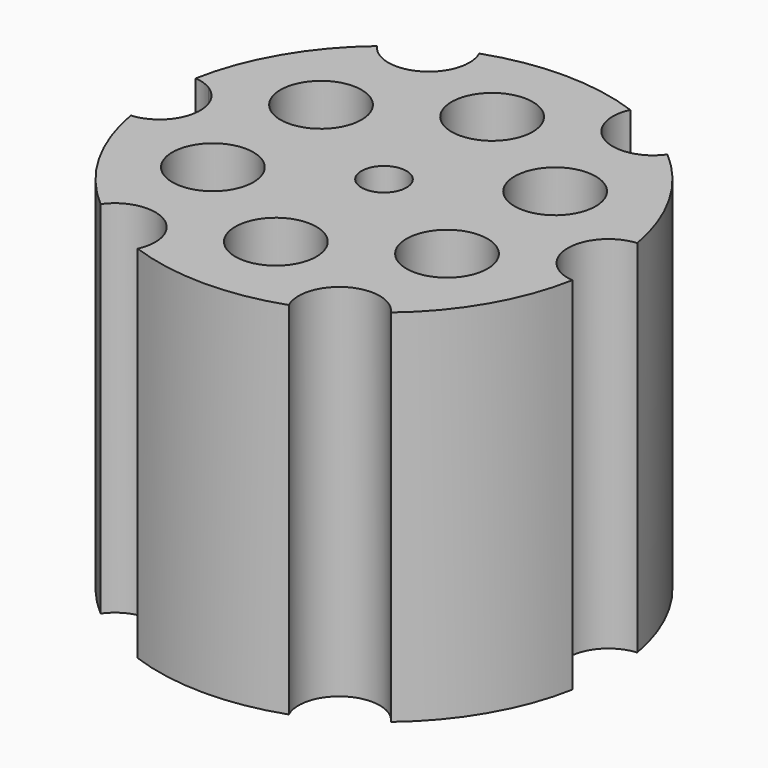
from build123d import *

# Parameters (mm, degrees)
F0_R     = 31.75
F0_R_2   = 5.715
F1_DEPTH = 50.8
F3_DEPTH = 76.2
F4_R     = 3.175
F5_DEPTH = 76.2


with BuildPart() as f1:
    # F0 (on Top) → F1 (new body)
    with BuildSketch(Plane.XY):
        Circle(F0_R)
        with Locations((-16.4977839421, -9.525)):
            Circle(F0_R_2, mode=Mode.SUBTRACT)
        with Locations((0, -19.05)):
            Circle(F0_R_2, mode=Mode.SUBTRACT)
        with Locations((16.4977839421, -9.525)):
            Circle(F0_R_2, mode=Mode.SUBTRACT)
        with Locations((-16.4977839421, 9.525)):
            Circle(F0_R_2, mode=Mode.SUBTRACT)
        with Locations((16.4977839421, 9.525)):
            Circle(F0_R_2, mode=Mode.SUBTRACT)
        with BuildLine():
            ThreePointArc((0, 13.335), (-4.0411152545, 23.0911152545), (5.715, 19.05))
            ThreePointArc((5.715, 19.05), (4.0411152545, 15.0088847455), (0, 13.335))
        make_face(mode=Mode.SUBTRACT)
    extrude(amount=F1_DEPTH)

    # F2 (on face) → F3 (cut)
    with BuildSketch(Plane.XY.offset(50.8)):
        with BuildLine():
            ThreePointArc((21.7238685359, 27.4185818051), (17.2514556231, 32.9968613186), (10.8342089276, 29.8443029222))
            ThreePointArc((10.8342089276, 29.8443029222), (16.0088685359, 27.4185818051), (20.6648408036, 24.1044986374))
            ThreePointArc((20.6648408036, 24.1044986374), (21.4526772444, 25.6789922716), (21.7238685359, 27.4185818051))
        make_face()
        with BuildLine():
            ThreePointArc((20.6648408036, 24.1044986374), (16.0088685359, 27.4185818051), (10.8342089276, 29.8443029222))
            ThreePointArc((10.8342089276, 29.8443029222), (13.1272721994, 22.4832370801), (20.6648408036, 24.1044986374))
        make_face()
        with BuildLine():
            Line((-15.740754111, 27.5733777405), (-12.907418371, 22.6101697472))
            ThreePointArc((-12.907418371, 22.6101697472), (-10.798399472, 24.7038210459), (-10.025754111, 27.5733777405))
            ThreePointArc((-10.025754111, 27.5733777405), (-10.1564827093, 28.7887533666), (-10.5426877637, 29.9485264198))
            ThreePointArc((-10.5426877637, 29.9485264198), (-13.1952704408, 28.8781463739), (-15.740754111, 27.5733777405))
        make_face()
        with BuildLine():
            ThreePointArc((-18.6103108055, 22.6310231015), (-15.7616515985, 21.8584159475), (-12.907418371, 22.6101697472))
            Line((-12.907418371, 22.6101697472), (-15.740754111, 27.5733777405))
            Line((-15.740754111, 27.5733777405), (-18.6103108055, 22.6310231015))
        make_face()
        with BuildLine():
            Line((-18.6103108055, 22.6310231015), (-15.740754111, 27.5733777405))
            ThreePointArc((-15.740754111, 27.5733777405), (-18.1584784341, 26.0448106339), (-20.4288200251, 24.3048516223))
            ThreePointArc((-20.4288200251, 24.3048516223), (-19.6111339829, 23.368453883), (-18.6103108055, 22.6310231015))
        make_face()
        with BuildLine():
            Line((-31.75, 0), (-26.0367194254, 0))
            ThreePointArc((-26.0367194254, 0), (-26.0351468655, 0.0773908676), (-26.0346226469, 0.1547959354))
            ThreePointArc((-26.0346226469, 0.1547959354), (-26.7776126488, 2.9726571064), (-28.8133948529, 5.0578349259))
            Line((-28.8133948529, 5.0578349259), (-31.75, 0))
        make_face()
        with BuildLine():
            ThreePointArc((-31.2630289527, -5.5394512999), (-27.5927222778, -3.7671174142), (-26.0367194254, 0))
            Line((-26.0367194254, 0), (-31.75, 0))
            ThreePointArc((-31.75, 0), (-31.6280229326, -2.7804074119), (-31.2630289527, -5.5394512999))
        make_face()
        with BuildLine():
            ThreePointArc((-31.2075285673, 5.8440277824), (-31.614091257, 2.9345756072), (-31.75, 0))
            Line((-31.75, 0), (-28.8133948529, 5.0578349259))
            ThreePointArc((-28.8133948529, 5.0578349259), (-29.9665899591, 5.5845306834), (-31.2075285673, 5.8440277824))
        make_face()
        with BuildLine():
            ThreePointArc((-10.2938685359, -27.4185818051), (-14.2692790024, -21.9747730965), (-20.6648408036, -24.1044986374))
            ThreePointArc((-20.6648408036, -24.1044986374), (-16.0088685359, -27.4185818051), (-10.8342089276, -29.8443029222))
            ThreePointArc((-10.8342089276, -29.8443029222), (-10.4305890224, -28.6611688923), (-10.2938685359, -27.4185818051))
        make_face()
        with BuildLine():
            ThreePointArc((20.4288200251, -24.3048516223), (12.907418371, -22.6101697472), (10.5426877637, -29.9485264198))
            ThreePointArc((10.5426877637, -29.9485264198), (15.740754111, -27.5733777405), (20.4288200251, -24.3048516223))
        make_face()
        with BuildLine():
            ThreePointArc((31.75, 0), (31.6280229326, 2.7804074119), (31.2630289527, 5.5394512999))
            ThreePointArc((31.2630289527, 5.5394512999), (26.0346905704, -0.126932667), (31.2075285673, -5.8440277824))
            ThreePointArc((31.2075285673, -5.8440277824), (31.614091257, -2.9345756072), (31.75, 0))
        make_face()
    extrude(amount=-F3_DEPTH, mode=Mode.SUBTRACT)

    # F4 (on face) → F5 (cut)
    with BuildSketch(Plane.XY.offset(50.8)):
        Circle(F4_R)
    extrude(amount=-F5_DEPTH, mode=Mode.SUBTRACT)


solid = f1.part
